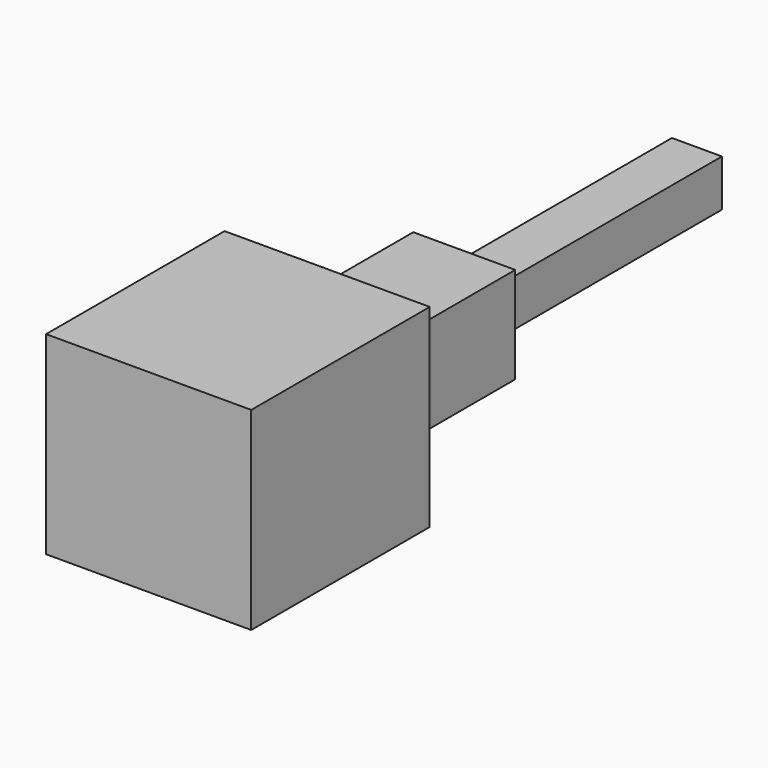
from build123d import *

# Parameters (mm, degrees)
F0_W     = 77.7748
F0_H     = 73.4568
F1_DEPTH = 42.291
F3_W     = 38.6588
F3_H     = 36.5252
F4_DEPTH = 64.262
F5_W     = 18.9484
F5_H     = 17.7546
F6_DEPTH = 109.982


with BuildPart() as f1:
    # F0 (on Front) → F1 (new body, symmetric)
    with BuildSketch(Plane.XZ):
        with Locations((-0.265293, -0.804183)):
            Rectangle(F0_W, F0_H)
    extrude(amount=F1_DEPTH, both=True)

    # F3 (on face) → F4 (join)
    with BuildSketch(Plane(origin=(0, 42.291, 0), x_dir=(-1, 0, 0), z_dir=(0, 1, 0))):
        with Locations((-0.297076, -2.281584)):
            Rectangle(F3_W, F3_H)
    extrude(amount=F4_DEPTH)

    # F5 (on face) → F6 (join)
    with BuildSketch(Plane(origin=(0, 106.553, 0), x_dir=(-1, 0, 0), z_dir=(0, 1, 0))):
        with Locations((-0.515443, -2.880927)):
            Rectangle(F5_W, F5_H)
    extrude(amount=F6_DEPTH)


solid = f1.part
